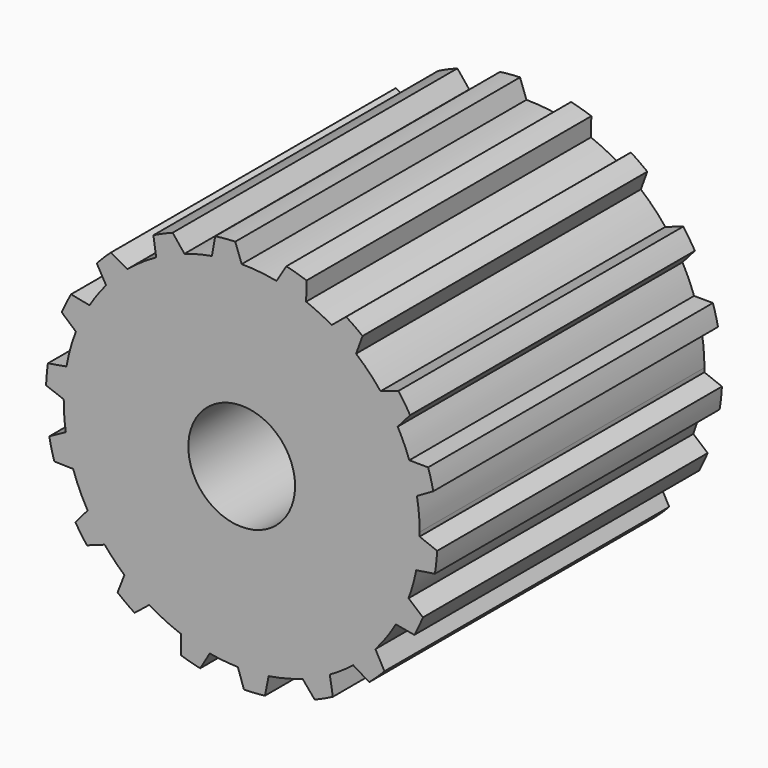
from build123d import *

# Parameters (mm, degrees)
F0_R     = 3.81
F1_DEPTH = 25.4


with BuildPart() as f1:
    # F0 (on Front) → F1 (new body)
    with BuildSketch(Plane.XZ):
        with BuildLine():
            Line((8.163403, 9.728764), (8.622894, 10.991205))
            ThreePointArc((8.622894, 10.991205), (8.047978, 11.418886), (7.451888, 11.816525))
            Line((7.451888, 11.816525), (6.417451, 10.959303))
            ThreePointArc((6.417451, 10.959303), (7.316343, 10.380805), (8.163403, 9.728764))
        make_face()
        with BuildLine():
            ThreePointArc((9.910585, 7.941681), (9.081062, 8.878306), (8.163403, 9.728764))
            ThreePointArc((8.163403, 9.728764), (7.316343, 10.380805), (6.417451, 10.959303))
            ThreePointArc((6.417451, 10.959303), (5.526004, 11.43474), (4.599586, 11.837813))
            ThreePointArc((4.599586, 11.837813), (3.556733, 12.191786), (2.487134, 12.454082))
            ThreePointArc((2.487134, 12.454082), (1.249631, 12.638371), (0, 12.7))
            ThreePointArc((0, 12.7), (-1.068009, 12.655013), (-2.128452, 12.520371))
            ThreePointArc((-2.128452, 12.520371), (-3.116945, 12.311566), (-4.085712, 12.024847))
            ThreePointArc((-4.085712, 12.024847), (-5.112114, 11.625674), (-6.100074, 11.13908))
            ThreePointArc((-6.100074, 11.13908), (-7.166515, 10.484801), (-8.163402, 9.728765))
            ThreePointArc((-8.163402, 9.728765), (-8.952628, 9.0078), (-9.678428, 8.223018))
            ThreePointArc((-9.678428, 8.223018), (-10.30144, 7.427673), (-10.85926, 6.585322))
            ThreePointArc((-10.85926, 6.585322), (-11.388945, 5.619779), (-11.83299, 4.611978))
            ThreePointArc((-11.83299, 4.611978), (-12.22937, 3.425277), (-12.507058, 2.205332))
            ThreePointArc((-12.507058, 2.205332), (-12.648213, 1.145737), (-12.69976, 0.078024))
            ThreePointArc((-12.69976, 0.078024), (-12.665777, -0.93171), (-12.551639, -1.935548))
            ThreePointArc((-12.551639, -1.935548), (-12.336763, -3.015672), (-12.029119, -4.07312))
            ThreePointArc((-12.029119, -4.07312), (-11.569966, -5.236973), (-10.998523, -6.35))
            ThreePointArc((-10.998523, -6.35), (-10.425558, -7.252429), (-9.778733, -8.103479))
            ThreePointArc((-9.778733, -8.103479), (-9.103656, -8.855136), (-8.370967, -9.550754))
            ThreePointArc((-8.370967, -9.550754), (-7.512072, -10.240057), (-6.596689, -10.852359))
            ThreePointArc((-6.596689, -10.852359), (-5.496847, -11.448785), (-4.343656, -11.934096))
            ThreePointArc((-4.343656, -11.934096), (-3.324669, -12.257103), (-2.282129, -12.493274))
            ThreePointArc((-2.282129, -12.493274), (-1.281833, -12.635146), (-0.273426, -12.697056))
            ThreePointArc((-0.273426, -12.697056), (0.827601, -12.673006), (1.922405, -12.553659))
            ThreePointArc((1.922405, -12.553659), (3.148308, -12.303583), (4.343655, -11.934096))
            ThreePointArc((4.343655, -11.934096), (5.331869, -11.526542), (6.28231, -11.037327))
            ThreePointArc((6.28231, -11.037327), (7.139774, -10.50303), (7.952054, -9.902264))
            ThreePointArc((7.952054, -9.902264), (8.78003, -9.176114), (9.541984, -8.380963))
            ThreePointArc((9.541984, -8.380963), (10.320335, -7.401398), (10.998522, -6.35))
            ThreePointArc((10.998522, -6.35), (11.493567, -5.402584), (11.907185, -4.416892))
            ThreePointArc((11.907185, -4.416892), (12.220601, -3.45643), (12.456679, -2.474093))
            ThreePointArc((12.456679, -2.474093), (12.624186, -1.385616), (12.696763, -0.286721))
            ThreePointArc((12.696763, -0.286721), (12.699191, -0.143369), (12.7, 0))
            ThreePointArc((12.7, 0), (12.651673, 1.106878), (12.507059, 2.205331))
            ThreePointArc((12.507059, 2.205331), (12.277297, 3.249303), (11.960557, 4.270256))
            ThreePointArc((11.960557, 4.270256), (11.583274, 5.207472), (11.132686, 6.111734))
            ThreePointArc((11.132686, 6.111734), (10.561344, 7.053226), (9.910585, 7.941681))
        make_face()
        Circle(F0_R, mode=Mode.SUBTRACT)
        with BuildLine():
            Line((11.183078, 8.372554), (9.910585, 7.941681))
            ThreePointArc((9.910585, 7.941681), (10.561344, 7.053226), (11.132686, 6.111734))
            Line((11.132686, 6.111734), (12.018204, 7.122055))
            ThreePointArc((12.018204, 7.122055), (11.617479, 7.758549), (11.183078, 8.372554))
        make_face()
        with BuildLine():
            ThreePointArc((2.487134, 12.454082), (3.556733, 12.191786), (4.599586, 11.837813))
            Line((4.599586, 11.837813), (4.62851, 13.180963))
            ThreePointArc((4.62851, 13.180963), (3.912406, 13.410965), (3.184961, 13.602093))
            Line((3.184961, 13.602093), (2.487134, 12.454082))
        make_face()
        with BuildLine():
            Line((13.303993, 4.262002), (11.960557, 4.270256))
            ThreePointArc((11.960557, 4.270256), (12.277297, 3.249303), (12.507059, 2.205331))
            Line((12.507059, 2.205331), (13.670531, 2.877062))
            ThreePointArc((13.670531, 2.877062), (13.505027, 3.574234), (13.303993, 4.262002))
        make_face()
        with BuildLine():
            ThreePointArc((-2.128452, 12.520371), (-1.068009, 12.655013), (0, 12.7))
            Line((0, 12.7), (-0.459491, 13.962441))
            ThreePointArc((-0.459491, 13.962441), (-1.17481, 13.920514), (-1.887038, 13.841965))
            Line((-1.887038, 13.841965), (-2.128452, 12.520371))
        make_face()
        with BuildLine():
            ThreePointArc((-6.100074, 11.13908), (-5.112114, 11.625674), (-4.085712, 12.024847))
            Line((-4.085712, 12.024847), (-4.926916, 13.072353))
            ThreePointArc((-4.926916, 13.072353), (-5.623325, 12.788241), (-6.303435, 12.467061))
            Line((-6.303435, 12.467061), (-6.100074, 11.13908))
        make_face()
        with BuildLine():
            Line((13.948509, -0.774596), (12.696763, -0.286721))
            ThreePointArc((12.696763, -0.286721), (12.624186, -1.385616), (12.456679, -2.474093))
            Line((12.456679, -2.474093), (13.784447, -2.269342))
            ThreePointArc((13.784447, -2.269342), (13.886604, -1.524178), (13.948509, -0.774596))
        make_face()
        with BuildLine():
            ThreePointArc((-9.678428, 8.223018), (-8.952628, 9.0078), (-8.163402, 9.728765))
            Line((-8.163402, 9.728765), (-9.326875, 10.400496))
            ThreePointArc((-9.326875, 10.400496), (-9.847891, 9.90858), (-10.342999, 9.390595))
            Line((-10.342999, 9.390595), (-9.678428, 8.223018))
        make_face()
        with BuildLine():
            Line((12.931012, -5.286759), (11.907185, -4.416892))
            ThreePointArc((11.907185, -4.416892), (11.493567, -5.402584), (10.998522, -6.35))
            Line((10.998522, -6.35), (12.321574, -6.58329))
            ThreePointArc((12.321574, -6.58329), (12.642924, -5.942842), (12.931012, -5.286759))
        make_face()
        with BuildLine():
            ThreePointArc((-11.83299, 4.611978), (-11.388945, 5.619779), (-10.85926, 6.585322))
            Line((-10.85926, 6.585322), (-12.176983, 6.847043))
            ThreePointArc((-12.176983, 6.847043), (-12.52784, 6.181757), (-12.842383, 5.498553))
            Line((-12.842383, 5.498553), (-11.83299, 4.611978))
        make_face()
        with BuildLine():
            Line((10.187277, -9.559304), (9.541984, -8.380963))
            ThreePointArc((9.541984, -8.380963), (8.78003, -9.176114), (7.952054, -9.902264))
            Line((7.952054, -9.902264), (9.100794, -10.598889))
            ThreePointArc((9.100794, -10.598889), (9.658033, -10.093725), (10.187277, -9.559304))
        make_face()
        with BuildLine():
            ThreePointArc((-12.69976, 0.078024), (-12.648213, 1.145737), (-12.507058, 2.205332))
            Line((-12.507058, 2.205332), (-13.83011, 1.972043))
            ThreePointArc((-13.83011, 1.972043), (-13.913034, 1.26031), (-13.959355, 0.545262))
            Line((-13.959355, 0.545262), (-12.69976, 0.078024))
        make_face()
        with BuildLine():
            Line((6.507467, -12.361787), (6.28231, -11.037327))
            ThreePointArc((6.28231, -11.037327), (5.331869, -11.526542), (4.343655, -11.934096))
            Line((4.343655, -11.934096), (5.207216, -12.963248))
            ThreePointArc((5.207216, -12.963248), (5.865056, -12.679196), (6.507467, -12.361787))
        make_face()
        with BuildLine():
            ThreePointArc((-12.029119, -4.07312), (-12.336763, -3.015672), (-12.551639, -1.935548))
            Line((-12.551639, -1.935548), (-13.729304, -2.582075))
            ThreePointArc((-13.729304, -2.582075), (-13.570439, -3.31724), (-13.372238, -4.042789))
            Line((-13.372238, -4.042789), (-12.029119, -4.07312))
        make_face()
        with BuildLine():
            Line((1.659305, -13.871107), (1.922405, -12.553659))
            ThreePointArc((1.922405, -12.553659), (0.827601, -12.673006), (-0.273426, -12.697056))
            Line((-0.273426, -12.697056), (0.158778, -13.969098))
            ThreePointArc((0.158778, -13.969098), (0.910361, -13.940306), (1.659305, -13.871107))
        make_face()
        with BuildLine():
            ThreePointArc((-9.778733, -8.103479), (-10.425558, -7.252429), (-10.998523, -6.35))
            Line((-10.998523, -6.35), (-11.862084, -7.379151))
            ThreePointArc((-11.862084, -7.379151), (-11.468114, -7.977672), (-11.043974, -8.555205))
            Line((-11.043974, -8.555205), (-9.778733, -8.103479))
        make_face()
        with BuildLine():
            Line((-2.960995, -13.652597), (-2.282129, -12.493274))
            ThreePointArc((-2.282129, -12.493274), (-3.324669, -12.257103), (-4.343656, -11.934096))
            Line((-4.343656, -11.934096), (-4.343656, -13.277558))
            ThreePointArc((-4.343656, -13.277558), (-3.657136, -13.482813), (-2.960995, -13.652597))
        make_face()
        with BuildLine():
            ThreePointArc((-6.596689, -10.852359), (-7.512072, -10.240057), (-8.370967, -9.550754))
            Line((-8.370967, -9.550754), (-8.857532, -10.80301))
            ThreePointArc((-8.857532, -10.80301), (-8.263279, -11.264063), (-7.645074, -11.692465))
            Line((-7.645074, -11.692465), (-6.596689, -10.852359))
        make_face()
    extrude(amount=F1_DEPTH)


solid = f1.part
